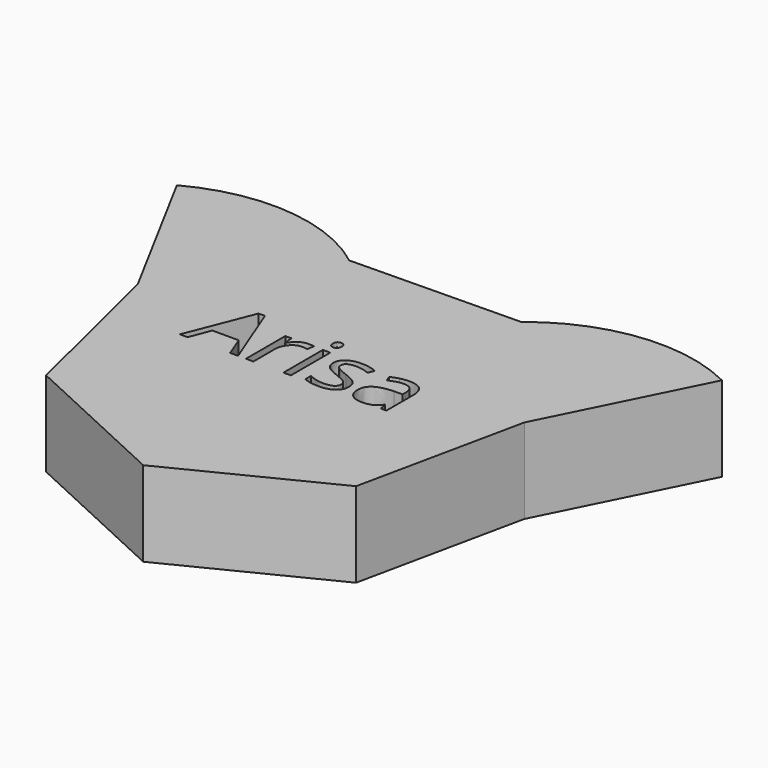
from build123d import *

# Parameters (mm, degrees)
F0_W       = 2.2281454939
F0_H       = 14.7040429991
F1_DEPTH   = 25.4
F1_FACE_W  = 50.8
F1_FACE_H  = 25.4
F2_ANGLE   = 66
F1_FACE1_W = 50.8
F1_FACE1_H = 25.4
F3_ANGLE   = 66


with BuildPart() as f1:
    # F0 (on Top) → F1 (new body)
    with BuildSketch(Plane.XY):
        Polygon((-26.2134087423, 52.3441413045), (-57.2680906174, 12.1415700729), (-45.1987322015, -37.2038510665), (0.9061934483, -58.5340135326), (46.3287369485, -35.7868699324), (56.8647965925, 13.9085166461), (24.5805045719, 53.130506508), align=None)
        Polygon((-16.3552618695, -1.5368833827), (-18.7164950518, -1.5368833827), (-21.1592981077, 4.7010653699), (-29.0200580293, 4.7010653699), (-31.4328090265, -1.5368833827), (-33.742524394, -1.5368833827), (-25.9890932534, 18.1600945092), (-24.0700546489, 18.1600945092), align=None, mode=Mode.SUBTRACT)
        with BuildLine():
            add(Edge.make_bspline(
                [(-9.8210856812, 12.6584211944), (-8.6662279975, 13.4376281445), (-7.283833298, 13.4376281445)],
                knots=[0, 0, 0, 1, 1, 1], degree=2))
            add(Edge.make_bspline(
                [(-7.283833298, 13.4376281445), (-6.3049948152, 13.4376281445), (-5.5279344406, 13.2744883974)],
                knots=[0, 0, 0, 1, 1, 1], degree=2))
            Line((-5.5279344406, 13.2744883974), (-5.8370413299, 11.2094826507))
            add(Edge.make_bspline(
                [(-5.8370413299, 11.2094826507), (-6.747189393, 11.411260759), (-7.4469730452, 11.411260759)],
                knots=[0, 0, 0, 1, 1, 1], degree=2))
            add(Edge.make_bspline(
                [(-7.4469730452, 11.411260759), (-9.2329239613, 11.411260759), (-10.4994035773, 9.9623222153)],
                knots=[0, 0, 0, 1, 1, 1], degree=2))
            add(Edge.make_bspline(
                [(-10.4994035773, 9.9623222153), (-11.7658831932, 8.5133836715), (-11.7658831932, 6.3539285975)],
                knots=[0, 0, 0, 1, 1, 1], degree=2))
            Line((-11.7658831932, 6.3539285975), (-11.7658831932, -1.5368833827))
            Line((-11.7658831932, -1.5368833827), (-13.9940286871, -1.5368833827))
            Line((-13.9940286871, -1.5368833827), (-13.9940286871, 13.1671596164))
            Line((-13.9940286871, 13.1671596164), (-12.1565599561, 13.1671596164))
            Line((-12.1565599561, 13.1671596164), (-11.8989708817, 10.4453017298))
            Line((-11.8989708817, 10.4453017298), (-11.7916421007, 10.4453017298))
            add(Edge.make_bspline(
                [(-11.7916421007, 10.4453017298), (-10.975943365, 11.8792142442), (-9.8210856812, 12.6584211944)],
                knots=[0, 0, 0, 1, 1, 1], degree=2))
        make_face(mode=Mode.SUBTRACT)
        with Locations((-1.6619517484, 5.8151381168)):
            Rectangle(F0_W, F0_H, mode=Mode.SUBTRACT)
        with BuildLine():
            add(Edge.make_bspline(
                [(-2.5892724164, 16.0306914939), (-2.96492315, 16.3999025006), (-2.96492315, 17.1512039677)],
                knots=[0, 0, 0, 1, 1, 1], degree=2))
            add(Edge.make_bspline(
                [(-2.96492315, 17.1512039677), (-2.96492315, 17.9153848885), (-2.5892724164, 18.2717164415)],
                knots=[0, 0, 0, 1, 1, 1], degree=2))
            add(Edge.make_bspline(
                [(-2.5892724164, 18.2717164415), (-2.2136216829, 18.6280479944), (-1.6469257191, 18.6280479944)],
                knots=[0, 0, 0, 1, 1, 1], degree=2))
            add(Edge.make_bspline(
                [(-1.6469257191, 18.6280479944), (-1.110281814, 18.6280479944), (-0.7217516267, 18.2652767146)],
                knots=[0, 0, 0, 1, 1, 1], degree=2))
            add(Edge.make_bspline(
                [(-0.7217516267, 18.2652767146), (-0.3332214395, 17.9025054348), (-0.3332214395, 17.1512039677)],
                knots=[0, 0, 0, 1, 1, 1], degree=2))
            add(Edge.make_bspline(
                [(-0.3332214395, 17.1512039677), (-0.3332214395, 16.3999025006), (-0.7217516267, 16.0306914939)],
                knots=[0, 0, 0, 1, 1, 1], degree=2))
            add(Edge.make_bspline(
                [(-0.7217516267, 16.0306914939), (-1.110281814, 15.6614804872), (-1.6469257191, 15.6614804872)],
                knots=[0, 0, 0, 1, 1, 1], degree=2))
            add(Edge.make_bspline(
                [(-1.6469257191, 15.6614804872), (-2.2136216829, 15.6614804872), (-2.5892724164, 16.0306914939)],
                knots=[0, 0, 0, 1, 1, 1], degree=2))
        make_face(mode=Mode.SUBTRACT)
        with BuildLine():
            add(Edge.make_bspline(
                [(12.7394240882, 4.9028434782), (13.6581584537, 3.936884449), (13.6581584537, 2.472919876)],
                knots=[0, 0, 0, 1, 1, 1], degree=2))
            add(Edge.make_bspline(
                [(13.6581584537, 2.472919876), (13.6581584537, 0.420793583), (12.129796612, -0.693279164)],
                knots=[0, 0, 0, 1, 1, 1], degree=2))
            add(Edge.make_bspline(
                [(12.129796612, -0.693279164), (10.6014347704, -1.8073519109), (7.8366453714, -1.8073519109)],
                knots=[0, 0, 0, 1, 1, 1], degree=2))
            add(Edge.make_bspline(
                [(7.8366453714, -1.8073519109), (4.9130093766, -1.8073519109), (3.2773187539, -0.8800312429)],
                knots=[0, 0, 0, 1, 1, 1], degree=2))
            Line((3.2773187539, -0.8800312429), (3.2773187539, 1.1849745038))
            add(Edge.make_bspline(
                [(3.2773187539, 1.1849745038), (4.3377271103, 0.6483305987), (5.5505423358, 0.341370285)],
                knots=[0, 0, 0, 1, 1, 1], degree=2))
            add(Edge.make_bspline(
                [(5.5505423358, 0.341370285), (6.7633575613, 0.0344099713), (7.8924563376, 0.0344099713)],
                knots=[0, 0, 0, 1, 1, 1], degree=2))
            add(Edge.make_bspline(
                [(7.8924563376, 0.0344099713), (9.6354757412, 0.0344099713), (10.5735292873, 0.590373057)],
                knots=[0, 0, 0, 1, 1, 1], degree=2))
            add(Edge.make_bspline(
                [(10.5735292873, 0.590373057), (11.5115828334, 1.1463361426), (11.5115828334, 2.2883143727)],
                knots=[0, 0, 0, 1, 1, 1], degree=2))
            add(Edge.make_bspline(
                [(11.5115828334, 2.2883143727), (11.5115828334, 3.1469446208), (10.7688676688, 3.7565720969)],
                knots=[0, 0, 0, 1, 1, 1], degree=2))
            add(Edge.make_bspline(
                [(10.7688676688, 3.7565720969), (10.0261525041, 4.3661995731), (7.8624042789, 5.1990709138)],
                knots=[0, 0, 0, 1, 1, 1], degree=2))
            add(Edge.make_bspline(
                [(7.8624042789, 5.1990709138), (5.8102779859, 5.9632518346), (4.9452080109, 6.5342409496)],
                knots=[0, 0, 0, 1, 1, 1], degree=2))
            add(Edge.make_bspline(
                [(4.9452080109, 6.5342409496), (4.0801380359, 7.1052300646), (3.6572626387, 7.8286260487)],
                knots=[0, 0, 0, 1, 1, 1], degree=2))
            add(Edge.make_bspline(
                [(3.6572626387, 7.8286260487), (3.2343872415, 8.5520220327), (3.2343872415, 9.556619423)],
                knots=[0, 0, 0, 1, 1, 1], degree=2))
            add(Edge.make_bspline(
                [(3.2343872415, 9.556619423), (3.2343872415, 11.3554497928), (4.6983518145, 12.3965389687)],
                knots=[0, 0, 0, 1, 1, 1], degree=2))
            add(Edge.make_bspline(
                [(4.6983518145, 12.3965389687), (6.1623163876, 13.4376281445), (8.7081550733, 13.4376281445)],
                knots=[0, 0, 0, 1, 1, 1], degree=2))
            add(Edge.make_bspline(
                [(8.7081550733, 13.4376281445), (11.0822677093, 13.4376281445), (13.3533447156, 12.4716691154)],
                knots=[0, 0, 0, 1, 1, 1], degree=2))
            Line((13.3533447156, 12.4716691154), (12.5591117361, 10.6599592919))
            add(Edge.make_bspline(
                [(12.5591117361, 10.6599592919), (10.3481388472, 11.5701073549), (8.5493084774, 11.5701073549)],
                knots=[0, 0, 0, 1, 1, 1], degree=2))
            add(Edge.make_bspline(
                [(8.5493084774, 11.5701073549), (6.9651356696, 11.5701073549), (6.160169812, 11.0742483866)],
                knots=[0, 0, 0, 1, 1, 1], degree=2))
            add(Edge.make_bspline(
                [(6.160169812, 11.0742483866), (5.3552039544, 10.5783894183), (5.3552039544, 9.7068797164)],
                knots=[0, 0, 0, 1, 1, 1], degree=2))
            add(Edge.make_bspline(
                [(5.3552039544, 9.7068797164), (5.3552039544, 9.1144248452), (5.6578711168, 8.7001357505)],
                knots=[0, 0, 0, 1, 1, 1], degree=2))
            add(Edge.make_bspline(
                [(5.6578711168, 8.7001357505), (5.9605382793, 8.2858466558), (6.6302698728, 7.9101959222)],
                knots=[0, 0, 0, 1, 1, 1], degree=2))
            add(Edge.make_bspline(
                [(6.6302698728, 7.9101959222), (7.3000014664, 7.5345451887), (9.2061606172, 6.8218820827)],
                knots=[0, 0, 0, 1, 1, 1], degree=2))
            add(Edge.make_bspline(
                [(9.2061606172, 6.8218820827), (11.8206897227, 5.8688025073), (12.7394240882, 4.9028434782)],
                knots=[0, 0, 0, 1, 1, 1], degree=2))
        make_face(mode=Mode.SUBTRACT)
        with BuildLine():
            Line((27.9758178412, -1.5368833827), (26.3229546135, -1.5368833827))
            Line((26.3229546135, -1.5368833827), (25.8807600358, 0.5581744227))
            Line((25.8807600358, 0.5581744227), (25.7734312547, 0.5581744227))
            add(Edge.make_bspline(
                [(25.7734312547, 0.5581744227), (24.6743845371, -0.8242202768), (23.5817775464, -1.3157860938)],
                knots=[0, 0, 0, 1, 1, 1], degree=2))
            add(Edge.make_bspline(
                [(23.5817775464, -1.3157860938), (22.4891705557, -1.8073519109), (20.8491867817, -1.8073519109)],
                knots=[0, 0, 0, 1, 1, 1], degree=2))
            add(Edge.make_bspline(
                [(20.8491867817, -1.8073519109), (18.6639728003, -1.8073519109), (17.4232520917, -0.6782531346)],
                knots=[0, 0, 0, 1, 1, 1], degree=2))
            add(Edge.make_bspline(
                [(17.4232520917, -0.6782531346), (16.1825313832, 0.4508456417), (16.1825313832, 2.5287308421)],
                knots=[0, 0, 0, 1, 1, 1], degree=2))
            add(Edge.make_bspline(
                [(16.1825313832, 2.5287308421), (16.1825313832, 6.9807286786), (23.3048692914, 7.1953862407)],
                knots=[0, 0, 0, 1, 1, 1], degree=2))
            Line((23.3048692914, 7.1953862407), (25.7991901622, 7.2769561142))
            Line((25.7991901622, 7.2769561142), (25.7991901622, 8.1913973285))
            add(Edge.make_bspline(
                [(25.7991901622, 8.1913973285), (25.7991901622, 9.9215372785), (25.0564749976, 10.7458223167)],
                knots=[0, 0, 0, 1, 1, 1], degree=2))
            add(Edge.make_bspline(
                [(25.0564749976, 10.7458223167), (24.3137598329, 11.5701073549), (22.673776059, 11.5701073549)],
                knots=[0, 0, 0, 1, 1, 1], degree=2))
            add(Edge.make_bspline(
                [(22.673776059, 11.5701073549), (20.836307328, 11.5701073549), (18.5180056581, 10.4453017298)],
                knots=[0, 0, 0, 1, 1, 1], degree=2))
            Line((18.5180056581, 10.4453017298), (17.8311014596, 12.1496827724))
            add(Edge.make_bspline(
                [(17.8311014596, 12.1496827724), (18.9172687235, 12.7378444923), (20.2116538225, 13.0727102891)],
                knots=[0, 0, 0, 1, 1, 1], degree=2))
            add(Edge.make_bspline(
                [(20.2116538225, 13.0727102891), (21.5060389216, 13.4075760859), (22.8111568987, 13.4075760859)],
                knots=[0, 0, 0, 1, 1, 1], degree=2))
            add(Edge.make_bspline(
                [(22.8111568987, 13.4075760859), (25.438565458, 13.4075760859), (26.7071916496, 12.241985524)],
                knots=[0, 0, 0, 1, 1, 1], degree=2))
            add(Edge.make_bspline(
                [(26.7071916496, 12.241985524), (27.9758178412, 11.0763949622), (27.9758178412, 8.5005042178)],
                knots=[0, 0, 0, 1, 1, 1], degree=2))
            Line((27.9758178412, 8.5005042178), (27.9758178412, -1.5368833827))
        make_face(mode=Mode.SUBTRACT)
    extrude(amount=F1_DEPTH)

    # F1_face (on face) → F2 (revolve)
    with BuildSketch(Plane(origin=(40.7226505822, 33.519511577, 12.7), x_dir=(-0.6355175595, 0.7720864146, 0), z_dir=(0.7720864146, 0.6355175595, 0))):
        Rectangle(F1_FACE_W, F1_FACE_H)
    revolve(axis=Axis((56.8647965925, 13.9085166461, 12.7), (0, 0, -1)), revolution_arc=F2_ANGLE)

    # F1_face1 (on face) → F3 (revolve)
    with BuildSketch(Plane(origin=(-41.7407496799, 32.2428556887, 12.7), x_dir=(-0.6113126353, -0.7913891975, 0), z_dir=(-0.7913891975, 0.6113126353, 0))):
        Rectangle(F1_FACE1_W, F1_FACE1_H)
    revolve(axis=Axis((-57.2680906174, 12.1415700729, 12.7), (0, 0, 1)), revolution_arc=F3_ANGLE)


solid = f1.part
